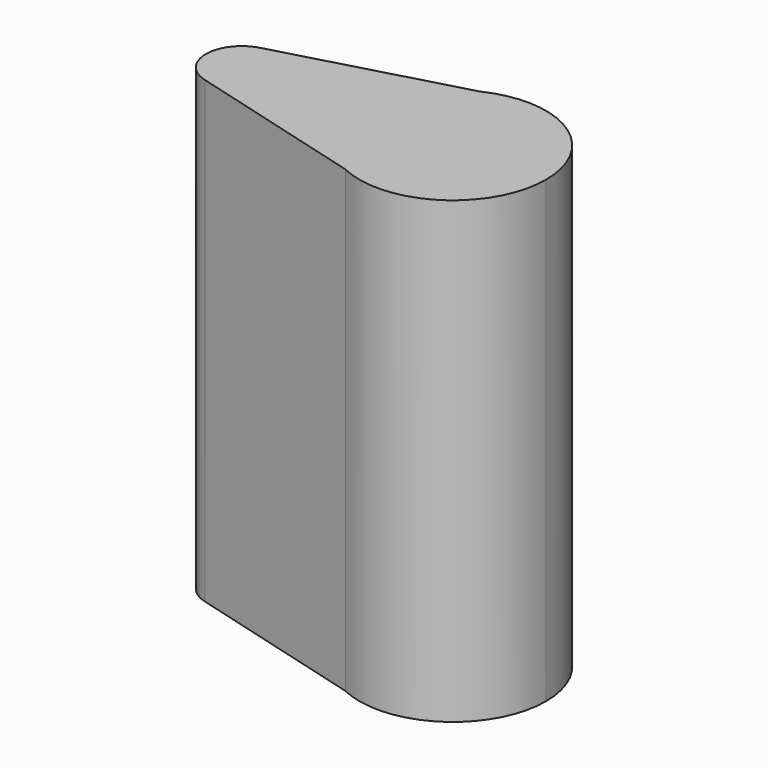
from build123d import *

# Parameters (mm, degrees)
F1_DEPTH = 4064


with BuildPart() as f1:
    # F0 (on Top) → F1 (new body)
    with BuildSketch(Plane.XY):
        with BuildLine():
            ThreePointArc((-1591.8769, -307.352148), (-1317.922893, -251.086356), (-1194.747086, 0))
            ThreePointArc((-1194.747086, 0), (-1317.922893, 251.086356), (-1591.8769, 307.352148))
            ThreePointArc((-1591.8769, 307.352148), (-1829.747086, 0), (-1591.8769, -307.352148))
        make_face()
        with BuildLine():
            ThreePointArc((-1591.8769, 307.352148), (-1317.922893, 251.086356), (-1194.747086, 0))
            ThreePointArc((-1194.747086, 0), (-1317.922893, -251.086356), (-1591.8769, -307.352148))
            Line((-1591.8769, -307.352148), (0, -745.220775))
            ThreePointArc((0, -745.220775), (-470.399666, 0), (0, 745.220775))
            Line((0, 745.220775), (-1591.8769, 307.352148))
        make_face()
        with BuildLine():
            ThreePointArc((1180.600334, 0), (795.733358, 698.063599), (0, 745.220775))
            ThreePointArc((0, 745.220775), (-470.399666, 0), (0, -745.220775))
            ThreePointArc((0, -745.220775), (795.733358, -698.063599), (1180.600334, 0))
        make_face()
    extrude(amount=F1_DEPTH)


solid = f1.part
